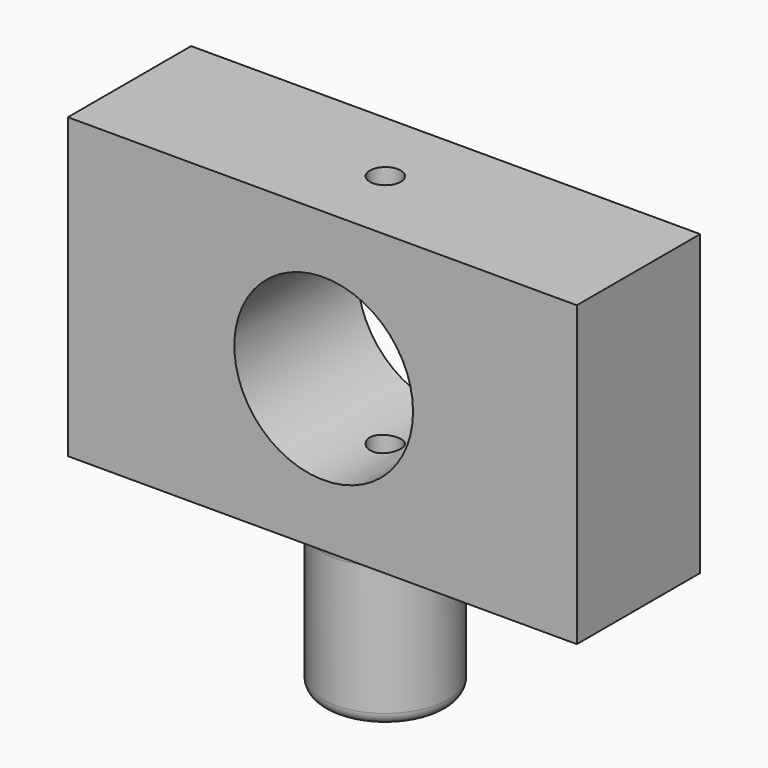
from build123d import *

# Parameters (mm, degrees)
F0_W           = 82.594938
F0_H           = 48.417722
F1_DEPTH       = 12.5
F2_R           = 14.500066
F3_DEPTH       = 25.001
F4_R           = 10.249702
F5_DEPTH       = 25
F6_R           = 2
F8_D           = 5
F8_CBORE_D     = 10
F8_CBORE_DEPTH = 10


with BuildPart() as f1:
    # F0 (on Front) → F1 (new body, symmetric)
    with BuildSketch(Plane.XZ):
        with Locations((-0.213608, -0.356012)):
            Rectangle(F0_W, F0_H)
    extrude(amount=F1_DEPTH, both=True)

    # F2 (on face) → F3 (cut, through all)
    with BuildSketch(Plane.XZ.offset(12.5)):
        Circle(F2_R)
    extrude(amount=-F3_DEPTH, mode=Mode.SUBTRACT)

    # F4 (on face) → F5 (join)
    with BuildSketch(Plane(origin=(0, 0, -24.564873), x_dir=(1, 0, 0), z_dir=(0, 0, -1))):
        Circle(F4_R)
    extrude(amount=F5_DEPTH)

    # F6
    f6_edges = [f1.edges().sort_by_distance(p)[0] for p in [
        (-10.249702, 0, -49.564873),
        (10.249702, 0, -37.064873),
        (-10.249702, 0, -24.564873),
    ]]
    fillet(f6_edges, radius=F6_R)

    # F8 (through all)
    with Locations(Plane(origin=(0, 0, -49.564873), x_dir=(1, 0, 0), z_dir=(0, 0, -1))):
        with Locations((0, 0)):
            CounterBoreHole(F8_D / 2, F8_CBORE_D / 2, F8_CBORE_DEPTH)


solid = f1.part
